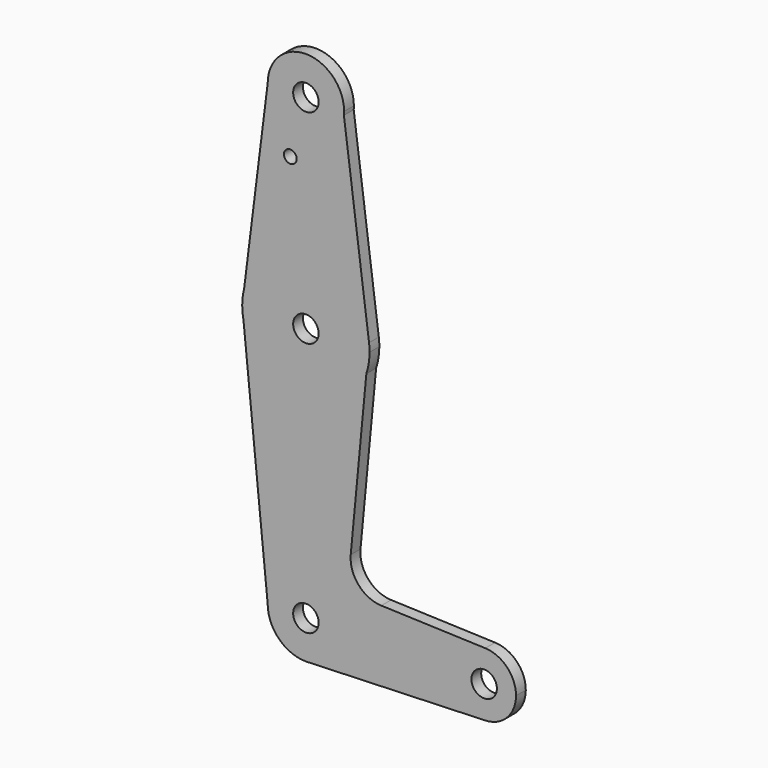
from build123d import *

# Parameters (mm, degrees)
F0_R     = 3.175
F0_R_2   = 1.5875
F1_DEPTH = 3.048


with BuildPart() as f1:
    # F0 (on Front) → F1 (new body)
    with BuildSketch(Plane.XZ):
        with BuildLine():
            ThreePointArc((9.4842235665, 113.4195862668), (9.5148004307, 113.8593212454), (9.525, 114.3))
            ThreePointArc((9.525, 114.3), (0, 123.825), (-9.525, 114.3))
            ThreePointArc((-9.525, 114.3), (-0.4406787546, 104.7851995693), (9.4842235665, 113.4195862668))
        make_face()
        with Locations((0, 114.3)):
            Circle(F0_R, mode=Mode.SUBTRACT)
        with BuildLine():
            ThreePointArc((9.4842235665, 113.4195862668), (-0.4406787546, 104.7851995693), (-9.525, 114.3))
            Line((-9.525, 114.3), (-15.3865384615, 67.4076923077))
            ThreePointArc((-15.3865384615, 67.4076923077), (0.9417857439, 79.3470396167), (15.7410654178, 65.5577863137))
            Line((15.7410654178, 65.5577863137), (9.4842235665, 113.4195862668))
        make_face()
        with Locations((-3.8827068638, 100.0252)):
            Circle(F0_R_2, mode=Mode.SUBTRACT)
        with BuildLine():
            Line((-15.875, 63.5), (-15.3865384615, 67.4076923077))
            ThreePointArc((-15.3865384615, 67.4076923077), (-15.7524112928, 65.4690514116), (-15.875, 63.5))
        make_face()
        with BuildLine():
            ThreePointArc((15.7410654178, 65.5577863137), (0.9417857439, 79.3470396167), (-15.3865384615, 67.4076923077))
            Line((-15.3865384615, 67.4076923077), (-15.875, 63.5))
            Line((-15.875, 63.5), (-15.5606505764, 60.3564703532))
            ThreePointArc((-15.5606505764, 60.3564703532), (-0.9529010259, 47.653624874), (15.0718176279, 58.5144269745))
            Line((15.0718176279, 58.5144269745), (15.7410654178, 65.5577863137))
        make_face()
        with Locations((0, 63.5)):
            Circle(F0_R, mode=Mode.SUBTRACT)
        with BuildLine():
            ThreePointArc((15.875, 63.5), (15.8414809678, 64.5310701946), (15.7410654178, 65.5577863137))
            Line((15.7410654178, 65.5577863137), (15.0718176279, 58.5144269745))
            ThreePointArc((15.0718176279, 58.5144269745), (15.6729182006, 60.9750722626), (15.875, 63.5))
        make_face()
        with BuildLine():
            Line((-15.5606505764, 60.3564703532), (-15.875, 63.5))
            ThreePointArc((-15.875, 63.5), (-15.7962171563, 61.9203960781), (-15.5606505764, 60.3564703532))
        make_face()
        with BuildLine():
            Line((11.1796890231, 17.5525280042), (15.0718176279, 58.5144269745))
            ThreePointArc((15.0718176279, 58.5144269745), (-0.9529010259, 47.653624874), (-15.5606505764, 60.3564703532))
            Line((-15.5606505764, 60.3564703532), (-9.5250715299, 0))
            ThreePointArc((-9.5250715299, 0), (0, 9.5250715299), (9.5250715299, 0))
            ThreePointArc((9.5250715299, 0), (6.9706194452, -6.4913367036), (0.6773789813, -9.5009549712))
            Line((0.6773789813, -9.5009549712), (44.732417943, -7.9324741636))
            ThreePointArc((44.732417943, -7.9324741636), (36.5125, 0), (44.732417943, 7.9324741636))
            Line((44.732417943, 7.9324741636), (18.8113713405, 8.8553348639))
            ThreePointArc((18.8113713405, 8.8553348639), (13.1184797992, 11.556842312), (11.1796890231, 17.5525280042))
        make_face()
        with BuildLine():
            ThreePointArc((9.5250715299, 0), (0, 9.5250715299), (-9.5250715299, 0))
            ThreePointArc((-9.5250715299, 0), (-6.7352426701, -6.7352426701), (0, -9.5250715299))
            Line((0, -9.5250715299), (0.6773789813, -9.5009549712))
            ThreePointArc((0.6773789813, -9.5009549712), (6.9706194452, -6.4913367036), (9.5250715299, 0))
        make_face()
        Circle(F0_R, mode=Mode.SUBTRACT)
        with BuildLine():
            Line((0.6773789813, -9.5009549712), (0, -9.5250715299))
            ThreePointArc((0, -9.5250715299), (0.3389040767, -9.5190404809), (0.6773789813, -9.5009549712))
        make_face()
        with BuildLine():
            ThreePointArc((52.3875, 0), (50.1616371853, 5.5119059239), (44.732417943, 7.9324741636))
            ThreePointArc((44.732417943, 7.9324741636), (36.5125, 0), (44.732417943, -7.9324741636))
            ThreePointArc((44.732417943, -7.9324741636), (50.1616371853, -5.5119059239), (52.3875, 0))
        make_face()
        with Locations((44.45, 0)):
            Circle(F0_R, mode=Mode.SUBTRACT)
    extrude(amount=F1_DEPTH)


solid = f1.part
